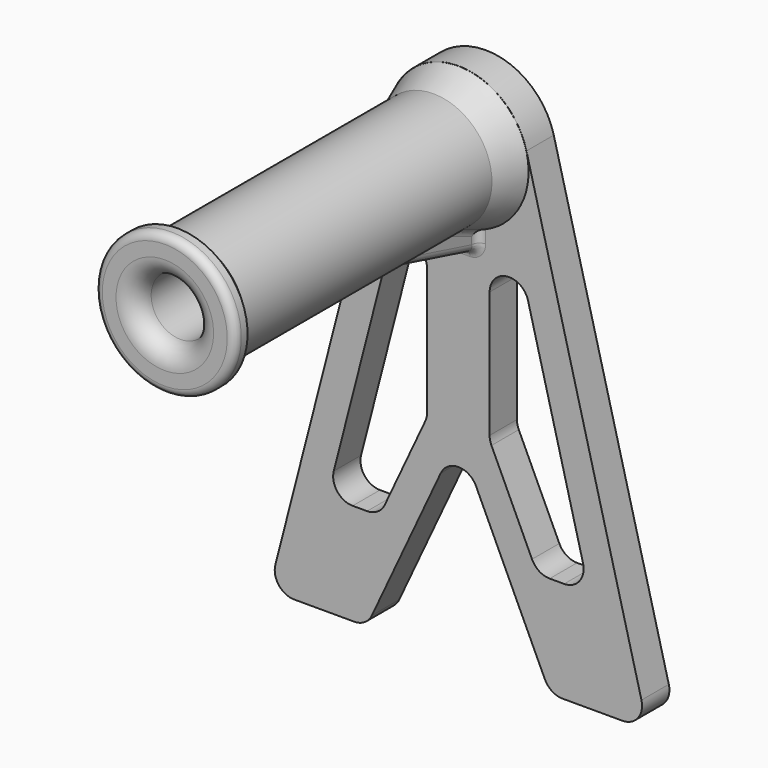
from build123d import *

# Parameters (mm, degrees)
PAD006_DEPTH     = 8.75
SKETCH022_R      = 15
PAD007_DEPTH     = 90
SKETCH023_R      = 18
PAD008_DEPTH     = 4
CHAMFER002_SIZE2 = 2.97
CHAMFER002_SIZE  = 8
PAD009_DEPTH     = 5
SKETCH025_R      = 7.5
POCKET008_DEPTH  = 102.751
FILLET007_R      = 2
FILLET008_R      = 5
CHAMFER003_SIZE2 = 3
CHAMFER003_SIZE  = 2.97
FILLET009_R      = 5
FILLET011_R      = 2


with BuildPart() as part:
    # Sketch019 (on DatumPlane) → Pad006 (new body)
    with BuildSketch(Plane.XZ.offset(-5.625)):
        with BuildLine():
            ThreePointArc((212.4298734322, 124.4943867367), (195, 138), (177.5701265678, 124.4943867367))
            Line((177.5701265678, 124.4943867367), (146.5, 4))
            Line((146.5, 4), (171.5, 4))
            Line((171.5, 4), (195, 54.395912632))
            Line((195, 54.395912632), (218.5, 4))
            Line((243.5, 4), (218.5, 4))
            Line((212.4298734322, 124.4943867367), (243.5, 4))
        make_face()
        with BuildLine():
            Line((161.4659179208, 30), (177.1583684911, 90.8575637353))
            ThreePointArc((187, 89.6091229751), (182.6292227171, 94.569372845), (177.1583684911, 90.8575637353))
            Line((187, 56.1694699331), (187, 89.6091229751))
            Line((174.7969757603, 30), (187, 56.1694699331))
            Line((161.4659179208, 30), (174.7969757603, 30))
        make_face(mode=Mode.SUBTRACT)
        with BuildLine():
            Line((212.8416315089, 90.8575637353), (228.5340820792, 30))
            Line((215.2030242397, 30), (228.5340820792, 30))
            Line((203, 56.1694699331), (215.2030242397, 30))
            Line((203, 56.1694699331), (203, 89.6091229751))
            ThreePointArc((212.8416315089, 90.8575637353), (207.3707772829, 94.569372845), (203, 89.6091229751))
        make_face(mode=Mode.SUBTRACT)
    extrude(amount=-PAD006_DEPTH)

    # Sketch022 (on Face18 of Pad006) → Pad007 (join)
    with BuildSketch(Plane(origin=(0, 5.625, 0), x_dir=(-1, 0, 0), z_dir=(0, -1, 0))):
        with Locations((-195, -120)):
            Circle(SKETCH022_R)
    extrude(amount=PAD007_DEPTH)

    # Sketch023 (on Face21 of Pad007) → Pad008 (join)
    with BuildSketch(Plane(origin=(0, -84.375, 0), x_dir=(-1, 0, 0), z_dir=(0, -1, 0))):
        with Locations((-195, -120)):
            Circle(SKETCH023_R)
    extrude(amount=PAD008_DEPTH)

    # Chamfer002
    chamfer002_edges = [part.edges().sort_by_distance(p)[0] for p in [
        (210, 5.625, 120),
    ]]
    chamfer002_side = part.faces().sort_by_distance((210, -39.375, 120))[0]
    chamfer(chamfer002_edges, length=CHAMFER002_SIZE, length2=CHAMFER002_SIZE2, reference=chamfer002_side)

    # Sketch024 (on DatumPlane) → Pad009 (join, symmetric)
    with BuildSketch(Plane.YZ.offset(195)):
        Polygon((-78.3461431703, 120), (5.625, 97.5), (5.625, 120), align=None)
    extrude(amount=PAD009_DEPTH, both=True)

    # Sketch025 → Pocket008 (cut, through all)
    with BuildSketch(Plane(origin=(0, -88.375, 0), x_dir=(-1, 0, 0), z_dir=(0, -1, 0))):
        with Locations((-195, -120)):
            Circle(SKETCH025_R)
    extrude(amount=-POCKET008_DEPTH, mode=Mode.SUBTRACT)

    # Fillet007
    fillet007_edges = [part.edges().sort_by_distance(p)[0] for p in [
        (200, -13.970987, 105.857864),
        (200, 1.622569, 104.292503),
        (200, 5.625, 100.119807),
        (200, -9.970987, 101.678932),
        (190, -9.970987, 101.678932),
        (195, 5.625, 97.5),
        (195, -22.365381, 105),
        (190, -13.970987, 105.857864),
        (190, 1.622569, 104.292503),
        (190, 5.625, 100.119807),
    ]]
    fillet(fillet007_edges, radius=FILLET007_R)

    # Fillet008
    fillet008_edges = [part.edges().sort_by_distance(p)[0] for p in [
        (202.5, -88.375, 120),
        (202.5, 14.375, 120),
    ]]
    fillet(fillet008_edges, radius=FILLET008_R)

    # Chamfer003
    chamfer003_edges = [part.edges().sort_by_distance(p)[0] for p in [
        (210, -84.375, 120),
    ]]
    chamfer003_side = part.faces().sort_by_distance((212.490883, -84.375, 120))[0]
    chamfer(chamfer003_edges, length=CHAMFER003_SIZE, length2=CHAMFER003_SIZE2, reference=chamfer003_side)

    # Fillet009
    fillet009_edges = [part.edges().sort_by_distance(p)[0] for p in [
        (187, 10, 56.16947),
        (174.796976, 10, 30),
        (161.465918, 10, 30),
        (203, 10, 56.16947),
        (215.203024, 10, 30),
        (228.534082, 10, 30),
        (195, 10, 54.395913),
        (146.5, 10, 4),
        (218.5, 10, 4),
        (171.5, 10, 4),
        (243.5, 10, 4),
    ]]
    fillet(fillet009_edges, radius=FILLET009_R)

    # Fillet011
    fillet011_edges = [part.edges().sort_by_distance(p)[0] for p in [
        (213, -88.375, 120),
    ]]
    fillet(fillet011_edges, radius=FILLET011_R)


solid = part.part
